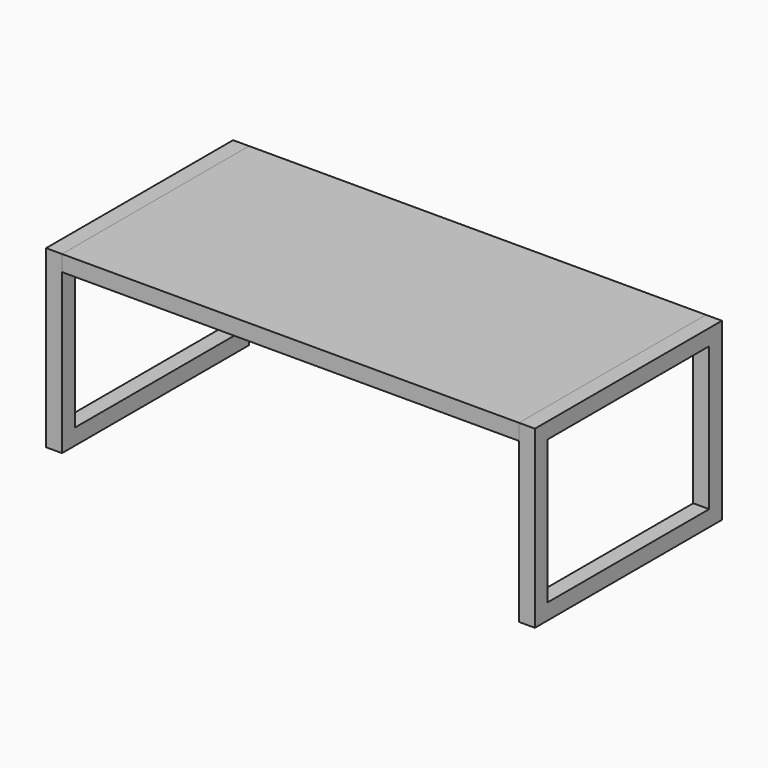
from build123d import *

# Parameters (mm, degrees)
F0_W     = 1092.2
F0_H     = 558.8
F1_DEPTH = 38.1
F3_DEPTH = 38.1


with BuildPart() as f1:
    # F0 (on Top) → F1 (new body)
    with BuildSketch(Plane.XY):
        Rectangle(F0_W, F0_H)
    extrude(amount=F1_DEPTH)


with BuildPart() as f3:
    # F2 (on face) → F3 (new body)
    with BuildSketch(Plane(origin=(-546.1, 0, 0), x_dir=(0, -1, 0), z_dir=(-1, 0, 0))):
        Polygon((279.4, 38.1), (-279.4, 38.1), (-279.4, 0), (-241.3, 0), (241.3, 0), (279.4, 0), align=None)
        Polygon((-241.3, 0), (-279.4, 0), (-279.4, -381), (279.4, -381), (279.4, 0), (241.3, 0), (241.3, -342.9), (-241.3, -342.9), align=None)
    extrude(amount=F3_DEPTH)


with BuildPart() as f4_1:
    # F4: instance of F3
    add(f3.part.mirror(Plane.YZ))


solid = Compound([f1.part, f3.part, f4_1.part])
